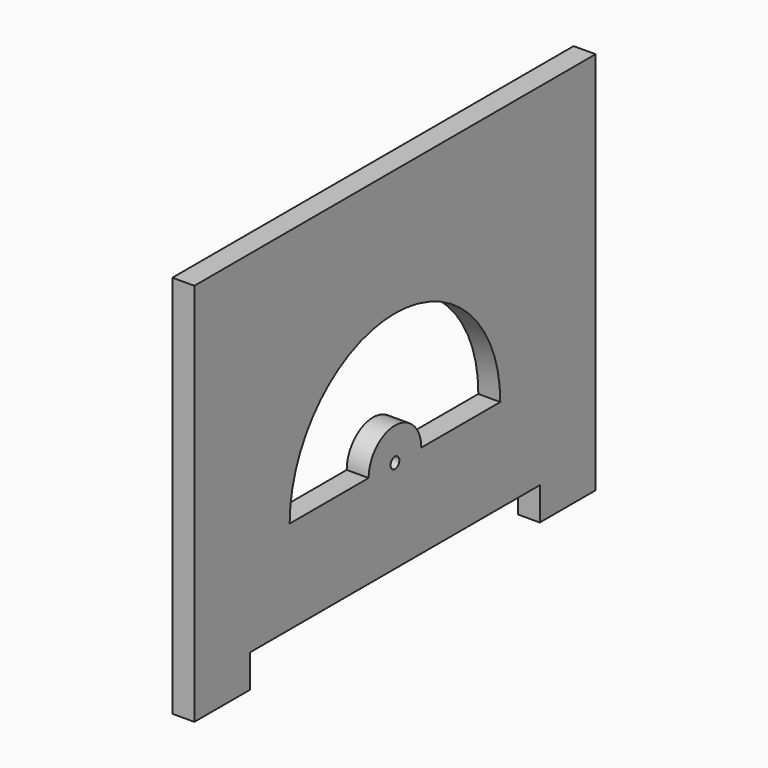
from build123d import *

# Parameters (mm, degrees)
F0_W     = 228.6
F0_H     = 175
F1_DEPTH = 10
F7_DEPTH = 25
F3_W     = 165
F3_H     = 30
F4_DEPTH = 25
F9_D     = 5


with BuildPart() as f1:
    # F0 (on Right) → F1 (new body)
    with BuildSketch(Plane.YZ):
        Rectangle(F0_W, F0_H)
    extrude(amount=F1_DEPTH)

    # F2 (on face) → F7 (cut)
    with BuildSketch(Plane.YZ.offset(10)):
        with BuildLine():
            Line((15, -30), (60, -30))
            ThreePointArc((60, -30), (0, 30), (-60, -30))
            Line((-60, -30), (-15, -30))
            ThreePointArc((-15, -30), (0, -15), (15, -30))
        make_face()
    extrude(amount=-F7_DEPTH, mode=Mode.SUBTRACT)

    # F3 (on face) → F4 (cut)
    with BuildSketch(Plane.YZ.offset(10)):
        with Locations((0, -87.5)):
            Rectangle(F3_W, F3_H)
    extrude(amount=-F4_DEPTH, mode=Mode.SUBTRACT)

    # F9 (through all)
    with Locations(Plane.YZ.offset(10)):
        with Locations((0, -30)):
            Hole(F9_D / 2)


solid = f1.part
